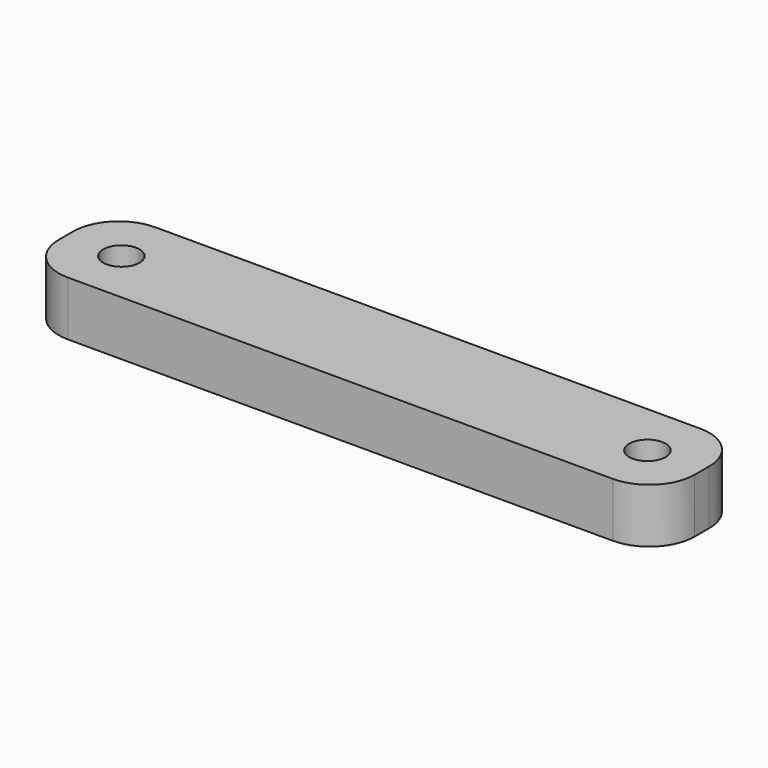
from build123d import *

# Parameters (mm, degrees)
F0_R     = 2.542646
F0_R_2   = 2.542644
F1_DEPTH = 7.62


with BuildPart() as f1:
    # F0 (on Top) → F1 (new body)
    with BuildSketch(Plane.XY):
        with BuildLine():
            Line((44.287826, 3.412554), (-31.912174, 3.412554))
            ThreePointArc((-31.912174, 3.412554), (-36.402302, 1.552682), (-38.262174, -2.937446))
            Line((-38.262174, -2.937446), (-38.262174, -5.477446))
            ThreePointArc((-38.262174, -5.477446), (-36.402302, -9.967574), (-31.912174, -11.827446))
            Line((-31.912174, -11.827446), (44.287826, -11.827446))
            ThreePointArc((44.287826, -11.827446), (48.777954, -9.967574), (50.637826, -5.477446))
            Line((50.637826, -5.477446), (50.637826, -2.937446))
            ThreePointArc((50.637826, -2.937446), (48.777954, 1.552682), (44.287826, 3.412554))
        make_face()
        with Locations((-30.522464, -4.207446)):
            Circle(F0_R, mode=Mode.SUBTRACT)
        with Locations((43.011911, -4.207446)):
            Circle(F0_R_2, mode=Mode.SUBTRACT)
    extrude(amount=F1_DEPTH)


solid = f1.part
